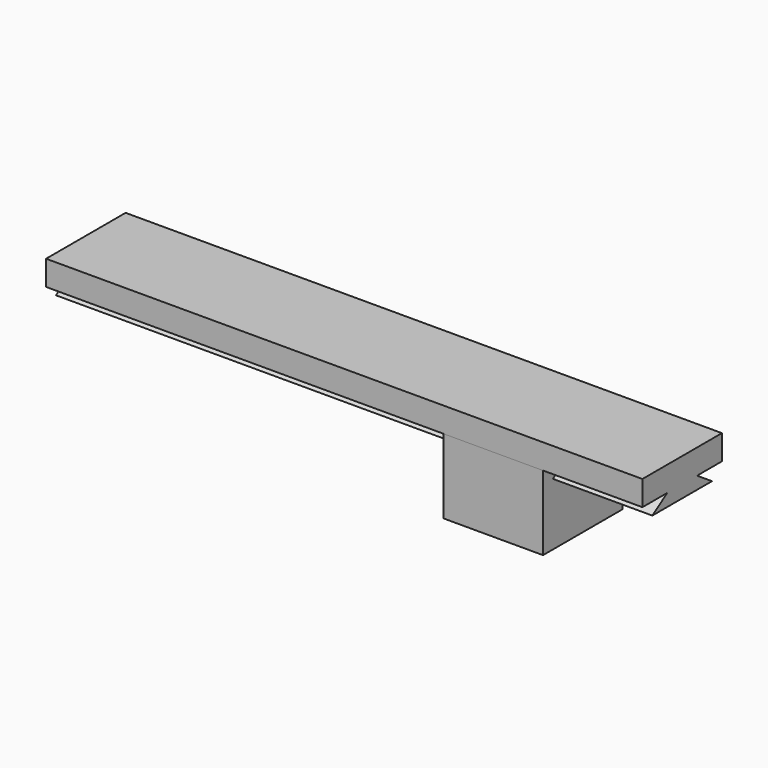
from build123d import *

# Parameters (mm, degrees)
F0_W     = 304.8
F0_H     = 50.8
F1_DEPTH = 6.35
F3_DEPTH = 304.8
F6_DEPTH = 25.4


with BuildPart() as f1:
    # F0 (on Top) → F1 (new body, symmetric)
    with BuildSketch(Plane.XY):
        Rectangle(F0_W, F0_H)
    extrude(amount=F1_DEPTH, both=True)

    # F2 (on face) → F3 (join, through all)
    with BuildSketch(Plane.YZ.offset(152.4)):
        Polygon((9.525, -6.35), (-9.525, -6.35), (-19.05, -12.7), (19.05, -12.7), align=None)
    extrude(amount=-F3_DEPTH)


with BuildPart() as f6:
    # F5 (on offset) → F6 (new body, symmetric)
    with BuildSketch(Plane.YZ.offset(76.2)):
        Polygon((-19.05, -12.7), (-9.525, -6.35), (-25.4, -6.35), (-25.4, -44.45), (25.4, -44.45), (25.4, -6.35), (9.525, -6.35), (19.05, -12.7), align=None)
    extrude(amount=F6_DEPTH, both=True)


solid = Compound([f1.part, f6.part])
